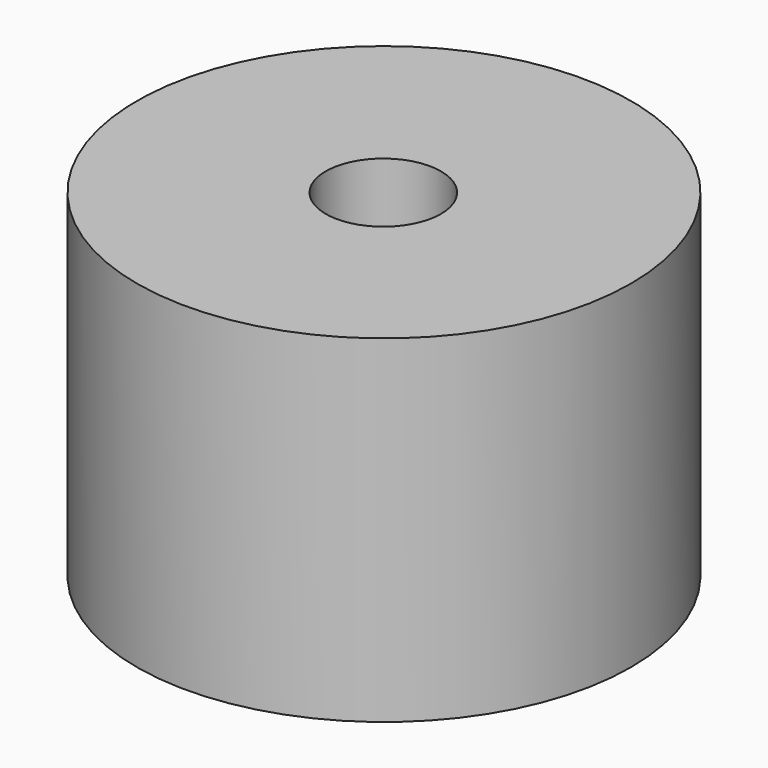
from build123d import *

# Parameters (mm, degrees)
F0_R     = 6
F2_DEPTH = 8.2
F1_R     = 1.4
F3_DEPTH = 25


with BuildPart() as f2:
    # F0 (on Top) → F2 (new body)
    with BuildSketch(Plane.XY):
        with Locations((-28.721539, 20.673197)):
            Circle(F0_R)
    extrude(amount=F2_DEPTH)

    # F1 (on face) → F3 (cut)
    with BuildSketch(Plane.XY):
        with Locations((-28.721539, 20.653469)):
            Circle(F1_R)
    extrude(amount=F3_DEPTH, mode=Mode.SUBTRACT)


solid = f2.part
